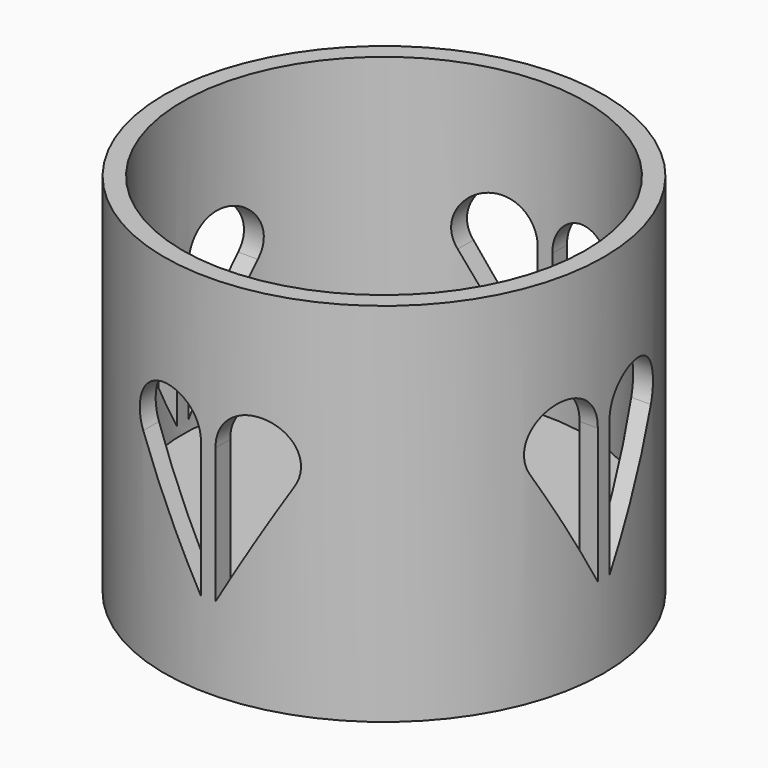
from build123d import *

# Parameters (mm, degrees)
F0_R      = 30
F1_DEPTH  = 10
F2_R      = 30
F2_R_2    = 27.5
F3_DEPTH  = 40
F5_DEPTH  = 35
F6_DEPTH  = 35
F7_DEPTH  = 0.001
F8_ANGLE  = 90
F10_DEPTH = 100


with BuildPart() as f1:
    # F0 (on Top) → F1 (new body)
    with BuildSketch(Plane.XY):
        Circle(F0_R)
    extrude(amount=F1_DEPTH)

    # F2 (on face) → F3 (join)
    with BuildSketch(Plane.XY.offset(10)):
        Circle(F2_R)
        Circle(F2_R_2, mode=Mode.SUBTRACT)
    extrude(amount=F3_DEPTH)

    # F4 (on Front) → F5 (cut)
    with BuildSketch(Plane.XZ):
        with BuildLine():
            ThreePointArc((-1.0021791073, 29.8523980864), (-1.0005448065, 29.9261910009), (-1, 30))
            ThreePointArc((-1, 30), (-7.2972686774, 34.8287776899), (-10.3268375915, 27.4943111812))
            Line((-10.3268375915, 27.4943111812), (-1.0021791073, 29.8523980864))
        make_face()
        with BuildLine():
            Line((-1.0021791073, 29.8523980864), (-10.3268375915, 27.4943111812))
            ThreePointArc((-10.3268375915, 27.4943111812), (-4.7741541244, 25.1525984394), (-1.0021791073, 29.8523980864))
        make_face()
        with BuildLine():
            ThreePointArc((-1.0021791073, 29.8523980864), (-4.7741541244, 25.1525984394), (-10.3268375915, 27.4943111812))
            Line((-10.3268375915, 27.4943111812), (-1.0021791073, 11.3924382934))
            Line((-1.0021791073, 11.3924382934), (-1.0021791073, 29.8523980864))
        make_face()
        with BuildLine():
            ThreePointArc((10.3268375915, 27.4943111812), (10.8287776899, 28.7027313226), (11, 30))
            ThreePointArc((11, 30), (5.9261910009, 34.9994551935), (1.0021791073, 29.8523980864))
            Line((1.0021791073, 29.8523980864), (10.3268375915, 27.4943111812))
        make_face()
        with BuildLine():
            Line((10.3268375915, 27.4943111812), (1.0021791073, 29.8523980864))
            ThreePointArc((1.0021791073, 29.8523980864), (4.7741541244, 25.1525984394), (10.3268375915, 27.4943111812))
        make_face()
        with BuildLine():
            ThreePointArc((10.3268375915, 27.4943111812), (4.7741541244, 25.1525984394), (1.0021791073, 29.8523980864))
            Line((1.0021791073, 29.8523980864), (1.0021791073, 11.3924382934))
            Line((1.0021791073, 11.3924382934), (10.3268375915, 27.4943111812))
        make_face()
    extrude(amount=-F5_DEPTH, mode=Mode.SUBTRACT)

    # F4 (on Front) → F6 (cut)
    with BuildSketch(Plane.XZ):
        with BuildLine():
            ThreePointArc((10.3268375915, 27.4943111812), (10.8287776899, 28.7027313226), (11, 30))
            ThreePointArc((11, 30), (5.9261910009, 34.9994551935), (1.0021791073, 29.8523980864))
            Line((1.0021791073, 29.8523980864), (10.3268375915, 27.4943111812))
        make_face()
        with BuildLine():
            Line((10.3268375915, 27.4943111812), (1.0021791073, 29.8523980864))
            ThreePointArc((1.0021791073, 29.8523980864), (4.7741541244, 25.1525984394), (10.3268375915, 27.4943111812))
        make_face()
        with BuildLine():
            ThreePointArc((10.3268375915, 27.4943111812), (4.7741541244, 25.1525984394), (1.0021791073, 29.8523980864))
            Line((1.0021791073, 29.8523980864), (1.0021791073, 11.3924382934))
            Line((1.0021791073, 11.3924382934), (10.3268375915, 27.4943111812))
        make_face()
        with BuildLine():
            ThreePointArc((-1.0021791073, 29.8523980864), (-1.0005448065, 29.9261910009), (-1, 30))
            ThreePointArc((-1, 30), (-7.2972686774, 34.8287776899), (-10.3268375915, 27.4943111812))
            Line((-10.3268375915, 27.4943111812), (-1.0021791073, 29.8523980864))
        make_face()
        with BuildLine():
            Line((-1.0021791073, 29.8523980864), (-10.3268375915, 27.4943111812))
            ThreePointArc((-10.3268375915, 27.4943111812), (-4.7741541244, 25.1525984394), (-1.0021791073, 29.8523980864))
        make_face()
        with BuildLine():
            ThreePointArc((-1.0021791073, 29.8523980864), (-4.7741541244, 25.1525984394), (-10.3268375915, 27.4943111812))
            Line((-10.3268375915, 27.4943111812), (-1.0021791073, 11.3924382934))
            Line((-1.0021791073, 11.3924382934), (-1.0021791073, 29.8523980864))
        make_face()
    extrude(amount=F6_DEPTH, mode=Mode.SUBTRACT)


with BuildPart() as f7:
    # F4 (on Front) → F7 (new body)
    with BuildSketch(Plane.XZ):
        with BuildLine():
            ThreePointArc((10.3268375915, 27.4943111812), (10.8287776899, 28.7027313226), (11, 30))
            ThreePointArc((11, 30), (5.9261910009, 34.9994551935), (1.0021791073, 29.8523980864))
            Line((1.0021791073, 29.8523980864), (10.3268375915, 27.4943111812))
        make_face()
        with BuildLine():
            Line((10.3268375915, 27.4943111812), (1.0021791073, 29.8523980864))
            ThreePointArc((1.0021791073, 29.8523980864), (4.7741541244, 25.1525984394), (10.3268375915, 27.4943111812))
        make_face()
        with BuildLine():
            ThreePointArc((10.3268375915, 27.4943111812), (4.7741541244, 25.1525984394), (1.0021791073, 29.8523980864))
            Line((1.0021791073, 29.8523980864), (1.0021791073, 11.3924382934))
            Line((1.0021791073, 11.3924382934), (10.3268375915, 27.4943111812))
        make_face()
    extrude(amount=F7_DEPTH)


with BuildPart() as f7b:
    # F4 (on Front) → F7, piece 2 (new body)
    with BuildSketch(Plane.XZ):
        with BuildLine():
            ThreePointArc((-1.0021791073, 29.8523980864), (-1.0005448065, 29.9261910009), (-1, 30))
            ThreePointArc((-1, 30), (-7.2972686774, 34.8287776899), (-10.3268375915, 27.4943111812))
            Line((-10.3268375915, 27.4943111812), (-1.0021791073, 29.8523980864))
        make_face()
        with BuildLine():
            Line((-1.0021791073, 29.8523980864), (-10.3268375915, 27.4943111812))
            ThreePointArc((-10.3268375915, 27.4943111812), (-4.7741541244, 25.1525984394), (-1.0021791073, 29.8523980864))
        make_face()
        with BuildLine():
            ThreePointArc((-1.0021791073, 29.8523980864), (-4.7741541244, 25.1525984394), (-10.3268375915, 27.4943111812))
            Line((-10.3268375915, 27.4943111812), (-1.0021791073, 11.3924382934))
            Line((-1.0021791073, 11.3924382934), (-1.0021791073, 29.8523980864))
        make_face()
    extrude(amount=F7_DEPTH)


with BuildPart() as f7b_1:
    # F8: moved
    add(f7b.part.rotate(Axis((0, 0, 0), (0, 0, -1)), F8_ANGLE))


with BuildPart() as f7_1:
    # F8: moved
    add(f7.part.rotate(Axis((0, 0, 0), (0, 0, -1)), F8_ANGLE))


with BuildPart() as f7_2:
    # F9: moved
    add(f7_1.part.moved(Location((48.6, 0, 0))))


with BuildPart() as f7b_2:
    # F9: moved
    add(f7b_1.part.moved(Location((48.6, 0, 0))))


with BuildPart() as f10_tool:
    # F7_face (on face) → F10 (new body)
    with BuildSketch(Plane(origin=(48.6, -4.9596337945, 26.1247931076), x_dir=(0, 1, 0), z_dir=(1, 0, 0))):
        with BuildLine():
            Line((3.9574546871, -14.7323548142), (3.9574546871, 3.7276049788))
            ThreePointArc((3.9574546871, 3.7276049788), (-2.2662120811, 8.722608453), (-5.367203797, 1.3695180736))
            Line((-5.367203797, 1.3695180736), (3.9574546871, -14.7323548142))
        make_face()
        with BuildLine():
            Line((5.9618129018, -14.7323548142), (15.2864713859, 1.3695180736))
            ThreePointArc((15.2864713859, 1.3695180736), (12.18547967, 8.722608453), (5.9618129018, 3.7276049788))
            Line((5.9618129018, 3.7276049788), (5.9618129018, -14.7323548142))
        make_face()
    extrude(amount=-F10_DEPTH)


with BuildPart() as f1_1:
    add(f1.part)

    # F10: cut by f10_tool
    add(f10_tool.part, mode=Mode.SUBTRACT)


with BuildPart() as f7_3:
    add(f7_2.part)

    # F10: cut by f10_tool
    add(f10_tool.part, mode=Mode.SUBTRACT)


with BuildPart() as f7b_3:
    add(f7b_2.part)

    # F10: cut by f10_tool
    add(f10_tool.part, mode=Mode.SUBTRACT)


solid = f1_1.part
